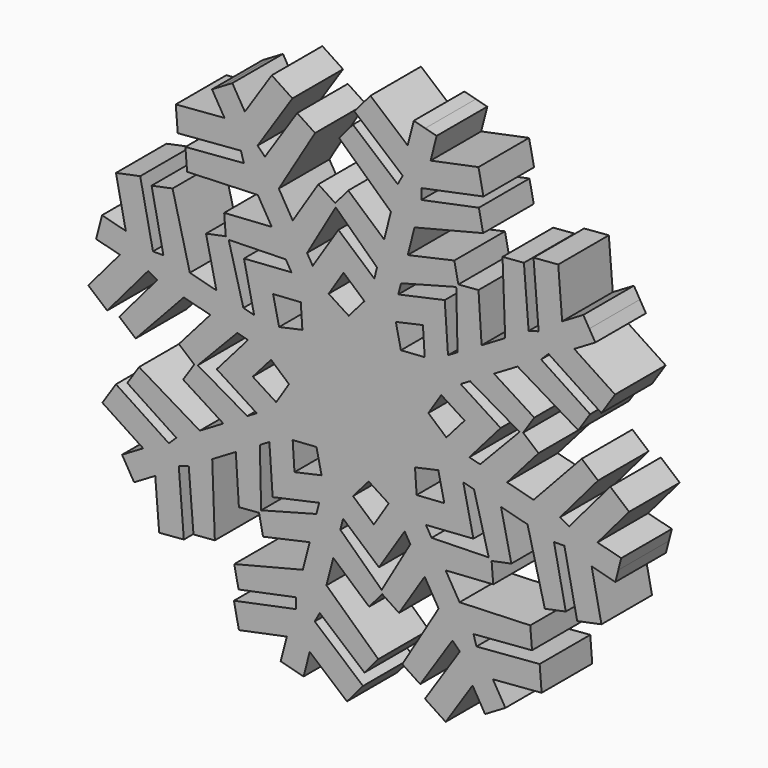
from build123d import *

# Parameters (mm, degrees)
F1_DEPTH = 25


with BuildPart() as f1:
    # F0 (on Front) → F1 (new body)
    with BuildSketch(Plane.XZ):
        Polygon((2.642488, 117.713441), (5.049761, 127.107872), (0.523441, 128.267718), (-4.00288, 129.427563), (-6.410153, 120.033133), (-21.129199, 132.547842), (-27.46916, 125.091163), (-8.38572, 108.865674), (-10.365242, 105.256733), (-28.023014, 120.270063), (-33.509375, 113.817337), (-13.022582, 94.801621), (-15.709553, 84.315663), (-29.879072, 96.74492), (-35.042896, 90.671542), (-41.700316, 95.056717), (-51.824302, 79.158082), (-57.339019, 88.47275), (-42.993926, 112.46284), (-50.067173, 117.121916), (-62.816655, 97.766098), (-65.727236, 100.676679), (-51.948376, 121.595263), (-60.122121, 126.979227), (-70.749748, 110.844735), (-75.690415, 119.1898), (-79.711141, 116.809342), (-83.731868, 114.428885), (-78.791201, 106.083821), (-98.048374, 104.52512), (-97.258735, 94.769422), (-72.291552, 96.790298), (-71.139379, 92.838658), (-94.241337, 90.968755), (-93.558014, 82.526546), (-65.625522, 83.566754), (-60.110805, 74.252087), (-78.91898, 73.021536), (-78.275829, 65.075634), (-86.084122, 63.468915), (-82.000829, 45.068142), (-92.486787, 47.755114), (-99.30683, 74.862181), (-107.602836, 73.155105), (-102.93145, 50.453229), (-107.047633, 50.453229), (-112.096181, 74.988027), (-121.682929, 73.015354), (-117.788987, 54.091679), (-127.183418, 56.498951), (-128.343263, 51.972631), (-129.503109, 47.44631), (-120.108678, 45.039038), (-132.623388, 30.319992), (-125.166709, 23.980031), (-108.94122, 43.063471), (-105.332279, 41.083949), (-120.345609, 23.426176), (-113.892883, 17.939816), (-94.877167, 38.426608), (-84.391209, 35.739637), (-96.820466, 21.570118), (-90.747088, 16.406294), (-95.132263, 9.748875), (-79.233628, -0.375112), (-88.548296, -5.889829), (-112.538386, 8.455265), (-117.197462, 1.382017), (-97.841643, -11.367465), (-100.752224, -14.278046), (-121.670809, -0.499186), (-127.054772, -8.672931), (-110.920281, -19.300558), (-119.265345, -24.241224), (-116.884888, -28.261951), (-114.504431, -32.282677), (-106.159366, -27.342011), (-104.600665, -46.599184), (-94.844967, -45.809545), (-96.865844, -20.842362), (-92.914204, -19.690189), (-91.044301, -42.792147), (-82.602092, -42.108823), (-83.6423, -14.176332), (-74.327632, -8.661615), (-73.097081, -27.46979), (-65.15118, -26.826638), (-63.54446, -34.634932), (-45.143688, -30.551638), (-47.830659, -41.037597), (-74.937727, -47.857639), (-73.23065, -56.153645), (-50.528775, -51.48226), (-50.528775, -55.598443), (-75.063573, -60.646991), (-73.090899, -70.233738), (-54.167224, -66.339797), (-56.574497, -75.734227), (-52.048177, -76.894073), (-47.521856, -78.053918), (-45.114583, -68.659488), (-30.395537, -81.174198), (-24.055576, -73.717518), (-43.139016, -57.492029), (-41.159494, -53.883088), (-23.501722, -68.896419), (-18.015361, -62.443693), (-38.502154, -43.427977), (-35.815183, -32.942018), (-21.645664, -45.371275), (-16.48184, -39.297898), (-9.82442, -43.683073), (0.299566, -27.784438), (5.814283, -37.099105), (-8.53081, -61.089195), (-1.457563, -65.748272), (11.291919, -46.392453), (14.2025, -49.303034), (0.42364, -70.221619), (8.597385, -75.605582), (19.225012, -59.471091), (24.165679, -67.816155), (28.186405, -65.435698), (32.207132, -63.05524), (27.266465, -54.710176), (46.523638, -53.151475), (45.733999, -43.395777), (20.766816, -45.416654), (19.614643, -41.465013), (42.716601, -39.595111), (42.033278, -31.152902), (14.100786, -32.19311), (8.586069, -22.878442), (27.394244, -21.647891), (26.751093, -13.701989), (34.559386, -12.09527), (30.476093, 6.305502), (40.962051, 3.618531), (47.782094, -23.488537), (56.0781, -21.78146), (51.406714, 0.920416), (55.522897, 0.920416), (60.571445, -23.614383), (70.158193, -21.641709), (66.264251, -2.718034), (75.658682, -5.125307), (76.818527, -0.598986), (77.978373, 3.927334), (68.583942, 6.334607), (81.098652, 21.053653), (73.641973, 27.393614), (57.416484, 8.310174), (53.807543, 10.289696), (68.820873, 27.947468), (62.368147, 33.433829), (43.352431, 12.947037), (32.866473, 15.634008), (45.29573, 29.803527), (39.222352, 34.967351), (43.607527, 41.62477), (27.708892, 51.748756), (37.02356, 57.263473), (61.01365, 42.91838), (65.672726, 49.991628), (46.316907, 62.74111), (49.227488, 65.651691), (70.146073, 51.87283), (75.530036, 60.046576), (59.395545, 70.674202), (67.740609, 75.614869), (65.360152, 79.635596), (62.979695, 83.656322), (54.63463, 78.715656), (53.075929, 97.972829), (43.320231, 97.18319), (45.341108, 72.216007), (41.389468, 71.063833), (39.519565, 94.165792), (31.077356, 93.482468), (32.117564, 65.549977), (22.802896, 60.03526), (21.572345, 78.843435), (13.626444, 78.200283), (12.019724, 86.008576), (-6.381048, 81.925283), (-3.694077, 92.411241), (23.412991, 99.231284), (21.705914, 107.52729), (-0.995961, 102.855905), (-0.995961, 106.972088), (23.538837, 112.020635), (21.566163, 121.607383), align=None)
        Polygon((-64.825196, -3.115147), (-61.054103, -0.882484), (-59.761214, -19.640695), (-41.390959, -15.631233), (-42.478794, -19.87653), (-64.303452, -25.696441), align=None, mode=Mode.SUBTRACT)
        Polygon((-40.440464, -5.766802), (-51.134867, -8.139984), (-51.850054, 2.791198), (-42.44973, 3.439105), align=None, mode=Mode.SUBTRACT)
        Polygon((-73.750027, 32.942345), (-69.50473, 31.85451), (-81.854577, 17.676242), (-66.029728, 7.521628), (-69.800822, 5.288965), (-89.348483, 16.60603), align=None, mode=Mode.SUBTRACT)
        Polygon((-58.38242, 13.824733), (-67.622598, 19.708724), (-60.398799, 27.943951), (-53.293627, 21.755058), align=None, mode=Mode.SUBTRACT)
        Polygon((-33.017891, -22.300836), (-31.930056, -18.055539), (-17.751788, -30.405387), (-7.597173, -14.580538), (-5.36451, -18.351631), (-16.681576, -37.899293), align=None, mode=Mode.SUBTRACT)
        Polygon((-13.900278, -6.93323), (-19.78427, -16.173408), (-28.019497, -8.949609), (-21.830603, -1.844436), align=None, mode=Mode.SUBTRACT)
        Polygon((3.039601, -13.376006), (0.806938, -9.604912), (19.565149, -8.312023), (15.555688, 10.058231), (19.800985, 8.970396), (25.620895, -12.854261), align=None, mode=Mode.SUBTRACT)
        Polygon((5.691256, 11.008726), (8.064438, 0.314324), (-2.866744, -0.400864), (-3.514651, 8.99946), align=None, mode=Mode.SUBTRACT)
        Polygon((-57.215992, 40.364918), (-59.589174, 51.059321), (-48.657992, 51.774509), (-48.010085, 42.374185), align=None, mode=Mode.SUBTRACT)
        Polygon((-54.564337, 64.749651), (-52.331674, 60.978557), (-71.089885, 59.685668), (-67.080424, 41.315413), (-71.325721, 42.403248), (-77.145631, 64.227906), align=None, mode=Mode.SUBTRACT)
        Polygon((-31.740466, 67.547052), (-23.505239, 60.323253), (-29.694133, 53.218081), (-37.624458, 58.306875), align=None, mode=Mode.SUBTRACT)
        Polygon((-18.506845, 73.674481), (-19.59468, 69.429184), (-33.772948, 81.779031), (-43.927563, 65.954182), (-46.160226, 69.725276), (-34.84316, 89.272938), align=None, mode=Mode.SUBTRACT)
        Polygon((6.857684, 37.548912), (16.097862, 31.664921), (8.874063, 23.429693), (1.768891, 29.618587), align=None, mode=Mode.SUBTRACT)
        Polygon((22.225291, 18.431299), (17.979994, 19.519134), (30.329841, 33.697403), (14.504992, 43.852017), (18.276086, 46.08468), (37.823747, 34.767615), align=None, mode=Mode.SUBTRACT)
        Polygon((-11.084272, 57.140447), (-0.389869, 59.513629), (0.325318, 48.582446), (-9.075006, 47.93454), align=None, mode=Mode.SUBTRACT)
        Polygon((-9.045942, 71.250175), (12.778716, 77.070085), (13.30046, 54.488792), (9.529367, 52.256129), (8.236478, 71.01434), (-10.133777, 67.004878), align=None, mode=Mode.SUBTRACT)
    extrude(amount=F1_DEPTH)


solid = f1.part
